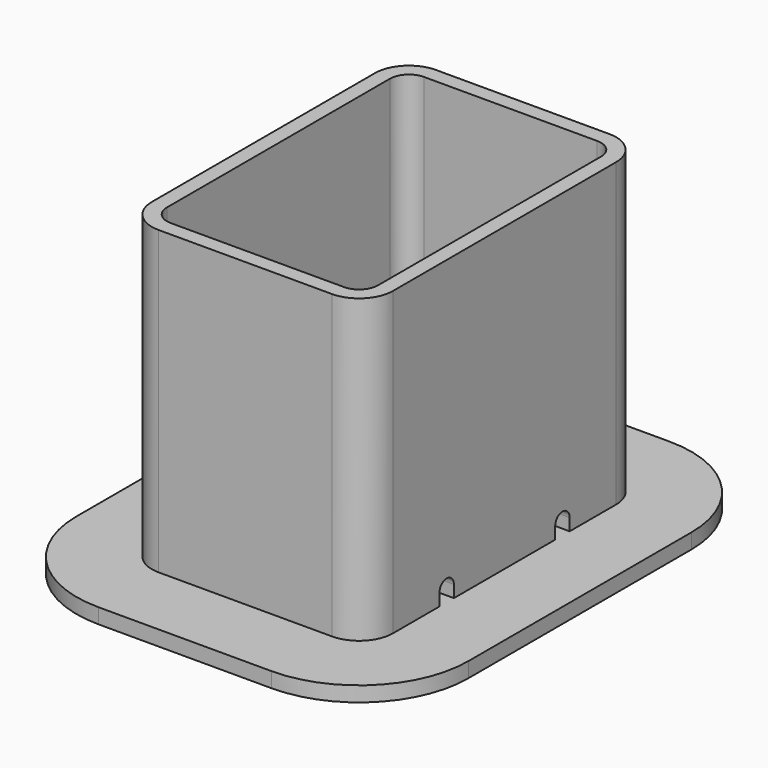
from build123d import *

# Parameters (mm, degrees)
F1_DEPTH = 25.4
F2_DEPTH = 1.27
F4_DEPTH = 1.27


with BuildPart() as f1:
    # F0 (on Top) → F1 (new body)
    with BuildSketch(Plane.XY):
        with BuildLine():
            Line((10.16, -11.7475), (10.16, 11.7475))
            ThreePointArc((10.16, 11.7475), (9.323058, 13.768058), (7.3025, 14.605))
            Line((7.3025, 14.605), (-7.3025, 14.605))
            ThreePointArc((-7.3025, 14.605), (-9.323058, 13.768058), (-10.16, 11.7475))
            Line((-10.16, 11.7475), (-10.16, -11.7475))
            ThreePointArc((-10.16, -11.7475), (-9.323058, -13.768058), (-7.3025, -14.605))
            Line((-7.3025, -14.605), (7.3025, -14.605))
            ThreePointArc((7.3025, -14.605), (9.323058, -13.768058), (10.16, -11.7475))
        make_face()
        with BuildLine():
            Line((-7.3025, 13.335), (7.3025, 13.335))
            ThreePointArc((7.3025, 13.335), (8.425032, 12.870032), (8.89, 11.7475))
            Line((8.89, 11.7475), (8.89, -11.7475))
            ThreePointArc((8.89, -11.7475), (8.425032, -12.870032), (7.3025, -13.335))
            Line((7.3025, -13.335), (-7.3025, -13.335))
            ThreePointArc((-7.3025, -13.335), (-8.425032, -12.870032), (-8.89, -11.7475))
            Line((-8.89, -11.7475), (-8.89, 11.7475))
            ThreePointArc((-8.89, 11.7475), (-8.425032, 12.870032), (-7.3025, 13.335))
        make_face(mode=Mode.SUBTRACT)
    extrude(amount=F1_DEPTH)

    # F0 (on Top) + F1_face (on face) → F2 (join)
    with BuildSketch(Plane.XY):
        with BuildLine():
            Line((7.3025, 20.955), (-7.3025, 20.955))
            ThreePointArc((-7.3025, 20.955), (-13.813186, 18.258186), (-16.51, 11.7475))
            Line((-16.51, 11.7475), (-16.51, -11.7475))
            ThreePointArc((-16.51, -11.7475), (-13.813186, -18.258186), (-7.3025, -20.955))
            Line((-7.3025, -20.955), (7.3025, -20.955))
            ThreePointArc((7.3025, -20.955), (13.813186, -18.258186), (16.51, -11.7475))
            Line((16.51, -11.7475), (16.51, 11.7475))
            ThreePointArc((16.51, 11.7475), (13.813186, 18.258186), (7.3025, 20.955))
        make_face()
        with BuildLine():
            ThreePointArc((7.3025, 14.605), (9.323058, 13.768058), (10.16, 11.7475))
            Line((10.16, 11.7475), (10.16, -11.7475))
            ThreePointArc((10.16, -11.7475), (9.323058, -13.768058), (7.3025, -14.605))
            Line((7.3025, -14.605), (-7.3025, -14.605))
            ThreePointArc((-7.3025, -14.605), (-9.323058, -13.768058), (-10.16, -11.7475))
            Line((-10.16, -11.7475), (-10.16, 11.7475))
            ThreePointArc((-10.16, 11.7475), (-9.323058, 13.768058), (-7.3025, 14.605))
            Line((-7.3025, 14.605), (7.3025, 14.605))
        make_face(mode=Mode.SUBTRACT)
    with BuildSketch(Plane.XY.offset(25.4)):
        with BuildLine():
            Line((10.16, -11.7475), (10.16, 11.7475))
            ThreePointArc((10.16, 11.7475), (9.323058, 13.768058), (7.3025, 14.605))
            Line((7.3025, 14.605), (-7.3025, 14.605))
            ThreePointArc((-7.3025, 14.605), (-9.323058, 13.768058), (-10.16, 11.7475))
            Line((-10.16, 11.7475), (-10.16, -11.7475))
            ThreePointArc((-10.16, -11.7475), (-9.323058, -13.768058), (-7.3025, -14.605))
            Line((-7.3025, -14.605), (7.3025, -14.605))
            ThreePointArc((7.3025, -14.605), (9.323058, -13.768058), (10.16, -11.7475))
        make_face()
        with BuildLine():
            Line((-8.89, -11.7475), (-8.89, 11.7475))
            ThreePointArc((-8.89, 11.7475), (-8.425032, 12.870032), (-7.3025, 13.335))
            Line((-7.3025, 13.335), (7.3025, 13.335))
            ThreePointArc((7.3025, 13.335), (8.425032, 12.870032), (8.89, 11.7475))
            Line((8.89, 11.7475), (8.89, -11.7475))
            ThreePointArc((8.89, -11.7475), (8.425032, -12.870032), (7.3025, -13.335))
            Line((7.3025, -13.335), (-7.3025, -13.335))
            ThreePointArc((-7.3025, -13.335), (-8.425032, -12.870032), (-8.89, -11.7475))
        make_face(mode=Mode.SUBTRACT)
    extrude(amount=F2_DEPTH)

    # F3 (on face) → F4 (cut, through all)
    with BuildSketch(Plane.YZ.offset(10.16)):
        with BuildLine():
            Line((-6.858, 2.286), (-6.858, 1.27))
            Line((-6.858, 1.27), (-5.334, 1.27))
            Line((-5.334, 1.27), (-5.334, 2.286))
            ThreePointArc((-5.334, 2.286), (-6.096, 3.048), (-6.858, 2.286))
        make_face()
        with BuildLine():
            ThreePointArc((6.858, 2.286), (6.096, 3.048), (5.334, 2.286))
            Line((5.334, 2.286), (5.334, 1.27))
            Line((5.334, 1.27), (6.858, 1.27))
            Line((6.858, 1.27), (6.858, 2.286))
        make_face()
    extrude(amount=-F4_DEPTH, mode=Mode.SUBTRACT)


solid = f1.part
